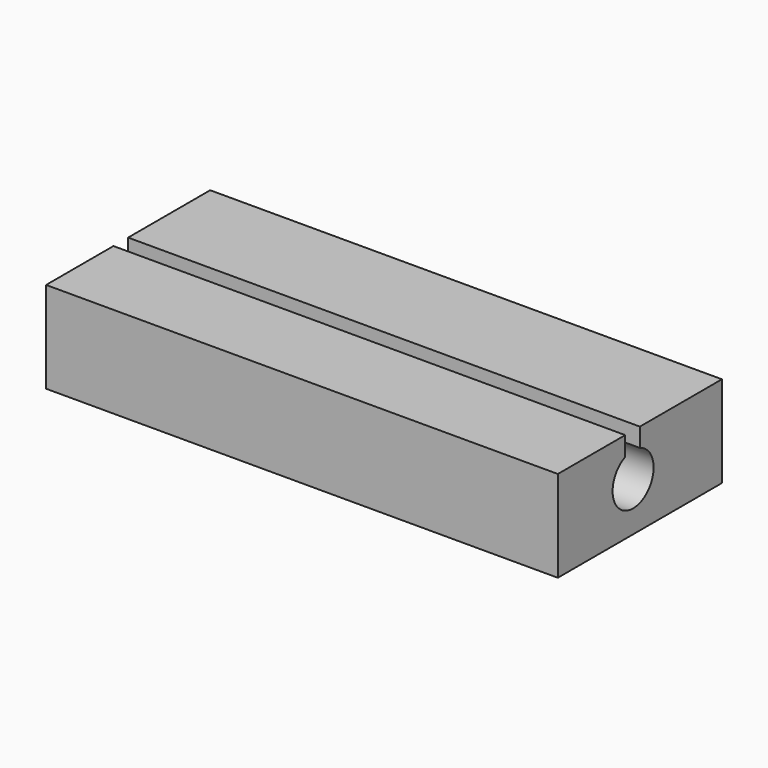
from build123d import *

# Parameters (mm, degrees)
F0_W     = 126.748518
F0_H     = 22.633665
F1_DEPTH = 50.8
F3_D     = 12.7
F4_W     = 4.541321
F4_H     = 4.775913
F5_DEPTH = 254


with BuildPart() as f1:
    # F0 (on Front) → F1 (new body)
    with BuildSketch(Plane.XZ):
        with Locations((7.582277, -0.67901)):
            Rectangle(F0_W, F0_H)
    extrude(amount=F1_DEPTH)

    # F3 (through all)
    with Locations(Plane(origin=(-55.791982, 0, 0), x_dir=(0, -1, 0), z_dir=(-1, 0, 0))):
        with Locations((27.499903, 0)):
            Hole(F3_D / 2)

    # F4 (on face) → F5 (cut)
    with BuildSketch(Plane(origin=(-55.791982, 0, 0), x_dir=(0, -1, 0), z_dir=(-1, 0, 0))):
        with Locations((27.67066, 8.249866)):
            Rectangle(F4_W, F4_H)
    extrude(amount=-F5_DEPTH, mode=Mode.SUBTRACT)


solid = f1.part
